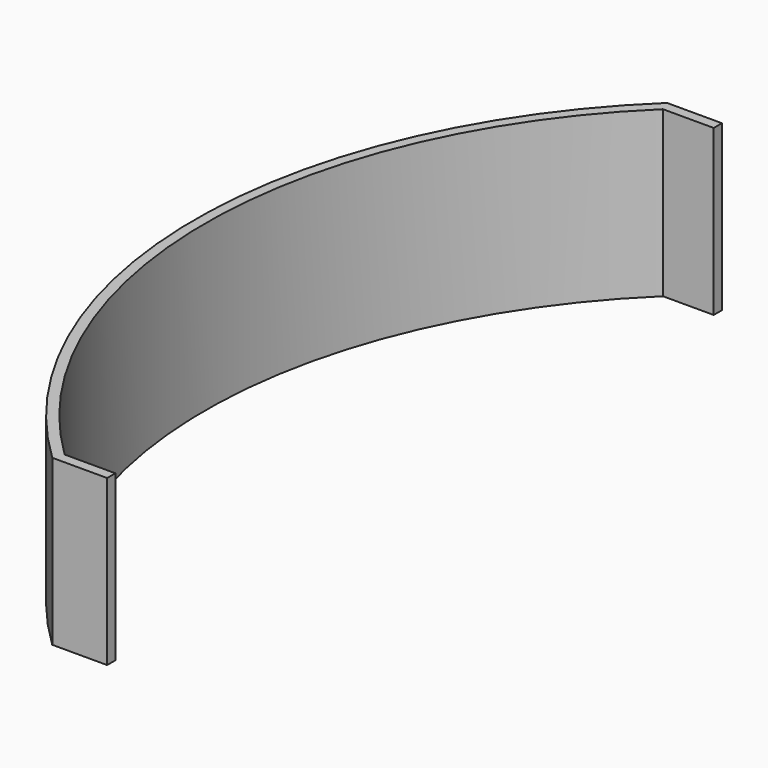
from build123d import *

# Parameters (mm, degrees)
F1_DEPTH = 152.4


with BuildPart() as f1:
    # F0 (on Top) → F1 (new body)
    with BuildSketch(Plane.XY):
        with BuildLine():
            Line((50.8, 711.2), (0, 711.2))
            ThreePointArc((0, 711.2), (-152.4, 355.6), (0, 0))
            Line((0, 0), (50.8, 0))
            Line((50.8, 0), (50.8, 9.525))
            Line((50.8, 9.525), (3.831676, 9.525))
            ThreePointArc((3.831676, 9.525), (-142.875, 355.6), (3.831676, 701.675))
            Line((3.831676, 701.675), (50.8, 701.675))
            Line((50.8, 701.675), (50.8, 711.2))
        make_face()
    extrude(amount=F1_DEPTH)


solid = f1.part
